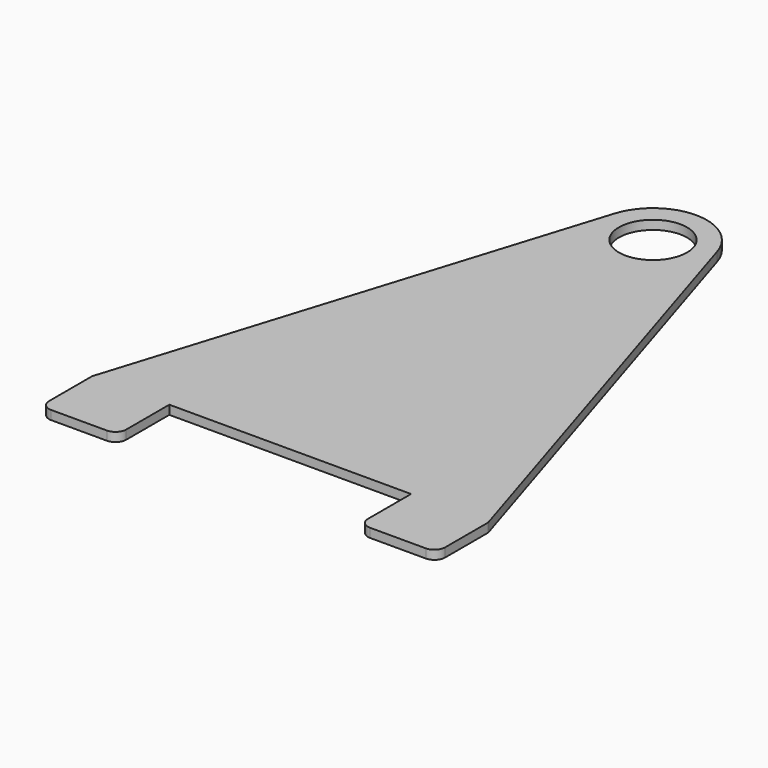
from build123d import *

# Parameters (mm, degrees)
F0_R     = 9.5
F1_DEPTH = 2.5


with BuildPart() as f1:
    # F0 (on Top) → F1 (new body)
    with BuildSketch(Plane.XY):
        with BuildLine():
            ThreePointArc((-14.317976, 65.921586), (-2.261677, 46.621432), (15, 61.449946))
            ThreePointArc((15, 61.449946), (14.828514, 63.711623), (14.317976, 65.921586))
            ThreePointArc((14.317976, 65.921586), (0, 76.449946), (-14.317976, 65.921586))
        make_face()
        with Locations((0, 61.449946)):
            Circle(F0_R, mode=Mode.SUBTRACT)
        with BuildLine():
            ThreePointArc((14.317976, 65.921586), (14.828514, 63.711623), (15, 61.449946))
            ThreePointArc((15, 61.449946), (-2.261677, 46.621432), (-14.317976, 65.921586))
            Line((-14.317976, 65.921586), (-55.184302, -64.930417))
            Line((-55.184302, -64.930417), (-55.184302, -79.930417))
            ThreePointArc((-55.184302, -79.930417), (-54.305622, -82.051737), (-52.184302, -82.930417))
            Line((-52.184302, -82.930417), (-36.684302, -82.930417))
            ThreePointArc((-36.684302, -82.930417), (-34.562982, -82.051737), (-33.684302, -79.930417))
            Line((-33.684302, -79.930417), (-33.684302, -64.930417))
            Line((-33.684302, -64.930417), (33.684302, -64.930417))
            Line((33.684302, -64.930417), (33.684302, -79.930417))
            ThreePointArc((33.684302, -79.930417), (34.562982, -82.051737), (36.684302, -82.930417))
            Line((36.684302, -82.930417), (52.184302, -82.930417))
            ThreePointArc((52.184302, -82.930417), (54.305622, -82.051737), (55.184302, -79.930417))
            Line((55.184302, -79.930417), (55.184302, -64.930417))
            Line((55.184302, -64.930417), (14.317976, 65.921586))
        make_face()
    extrude(amount=F1_DEPTH)


solid = f1.part
